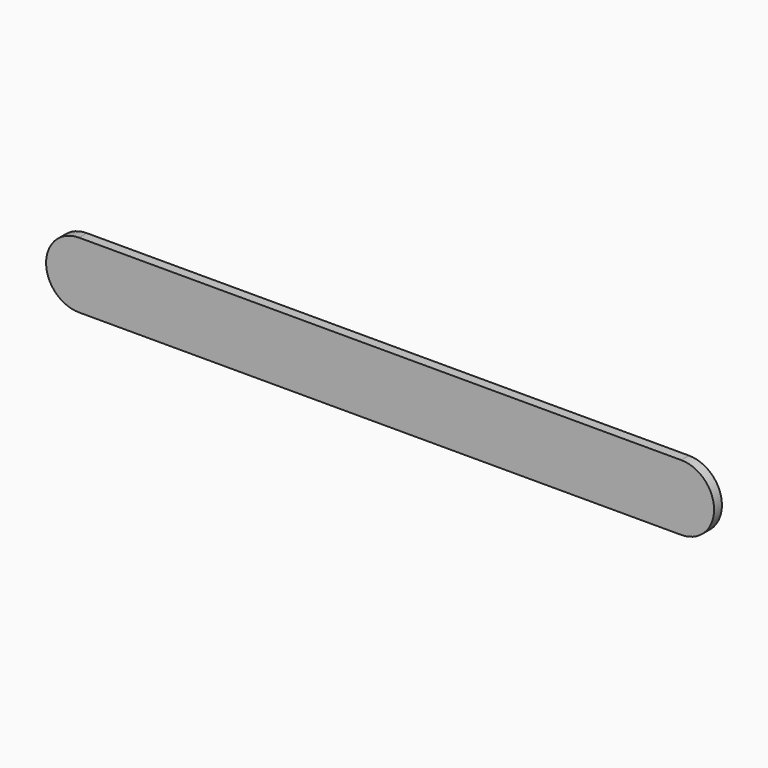
from build123d import *

# Parameters (mm, degrees)
F0_W     = 125.1723188907
F0_H     = 13.6907212436
F1_DEPTH = 2.032


with BuildPart() as f1:
    # F0 (on Front) → F1 (new body)
    with BuildSketch(Plane.XZ):
        with Locations((-43.5463851318, 17.7142154425)):
            Rectangle(F0_W, F0_H)
        with BuildLine():
            Line((-106.1325445771, 10.8688548207), (-106.1325445771, 24.5595760643))
            ThreePointArc((-106.1325445771, 24.5595760643), (-112.9779051989, 17.7142154425), (-106.1325445771, 10.8688548207))
        make_face()
        with BuildLine():
            ThreePointArc((19.0397743136, 10.8688548207), (25.8851349354, 17.7142154425), (19.0397743136, 24.5595760643))
            Line((19.0397743136, 24.5595760643), (19.0397743136, 10.8688548207))
        make_face()
    extrude(amount=F1_DEPTH)


solid = f1.part
